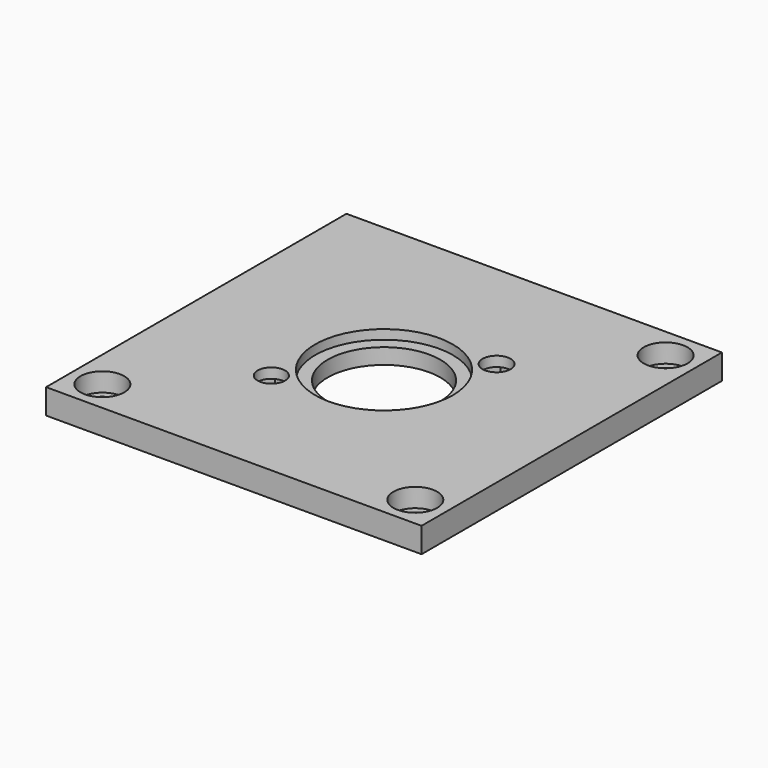
from build123d import *

# Parameters (mm, degrees)
CYLINDER031_R     = 2.25
CYLINDER031_DEPTH = 10
EXTRUDE002_DEPTH  = 2.4
CYLINDER030_R     = 2.2
CYLINDER030_DEPTH = 10
EXTRUDE001_DEPTH  = 2.4
CYLINDER029_R     = 11
CYLINDER029_DEPTH = 10
CYLINDER022_R     = 9
CYLINDER022_DEPTH = 10
CYLINDER024_R     = 3.5
CYLINDER024_DEPTH = 3
CYLINDER023_R     = 2.4
CYLINDER023_DEPTH = 10
CYLINDER026_R     = 3.5
CYLINDER026_DEPTH = 3
CYLINDER025_R     = 2.4
CYLINDER025_DEPTH = 10
CYLINDER028_R     = 3.5
CYLINDER028_DEPTH = 3
CYLINDER027_R     = 2.4
CYLINDER027_DEPTH = 10
BOX005_W          = 60
BOX005_H          = 60
BOX005_DEPTH      = 4


with BuildPart() as cylinder031:
    # Cylinder031 → Cylinder031 (new body)
    with BuildSketch(Plane(origin=(40, 40, 0), x_dir=(1, 0, 0), z_dir=(0, 0, 1))):
        Circle(CYLINDER031_R)
    extrude(amount=CYLINDER031_DEPTH)


with BuildPart() as fusion026:
    # Sketch002 → Extrude002 (new body)
    with BuildSketch(Plane.XY):
        Polygon((-3.005, 0), (-1.5025, -2.602406), (1.5025, -2.602406), (3.005, 0), (1.5025, 2.602406), (-1.5025, 2.602406), align=None)
    extrude(amount=EXTRUDE002_DEPTH)


with BuildPart() as fusion026_1:
    # Extrude002 placement: moved
    add(fusion026.part.moved(Location((40, 40, 0))))

    # Fusion026: union Cylinder031
    add(cylinder031.part)


with BuildPart() as cylinder030:
    # Cylinder030 → Cylinder030 (new body)
    with BuildSketch(Plane(origin=(20, 20, 0), x_dir=(1, 0, 0), z_dir=(0, 0, 1))):
        Circle(CYLINDER030_R)
    extrude(amount=CYLINDER030_DEPTH)


with BuildPart() as compound004:
    # Sketch001 → Extrude001 (new body)
    with BuildSketch(Plane.XY):
        Polygon((-3.005, 0), (-1.5025, -2.602406), (1.5025, -2.602406), (3.005, 0), (1.5025, 2.602406), (-1.5025, 2.602406), align=None)
    extrude(amount=EXTRUDE001_DEPTH)


with BuildPart() as compound004_1:
    # Extrude001 placement: moved
    add(compound004.part.moved(Location((20, 20, 0))))

    # Fusion025: union Cylinder030
    add(cylinder030.part)

    # Compound004: union Fusion026
    add(fusion026_1.part)


with BuildPart() as cylinder029:
    # Cylinder029 → Cylinder029 (new body)
    with BuildSketch(Plane(origin=(30, 30, 2.5), x_dir=(1, 0, 0), z_dir=(0, 0, 1))):
        Circle(CYLINDER029_R)
    extrude(amount=CYLINDER029_DEPTH)


with BuildPart() as cylinder022:
    # Cylinder022 → Cylinder022 (new body)
    with BuildSketch(Plane(origin=(30, 30, 0), x_dir=(1, 0, 0), z_dir=(0, 0, 1))):
        Circle(CYLINDER022_R)
    extrude(amount=CYLINDER022_DEPTH)


with BuildPart() as cylinder024:
    # Cylinder024 → Cylinder024 (new body)
    with BuildSketch(Plane.XY.offset(1)):
        Circle(CYLINDER024_R)
    extrude(amount=CYLINDER024_DEPTH)


with BuildPart() as fusion022:
    # Cylinder023 → Cylinder023 (new body)
    with BuildSketch(Plane.XY):
        Circle(CYLINDER023_R)
    extrude(amount=CYLINDER023_DEPTH)

    # Fusion022: union Cylinder024
    add(cylinder024.part)


with BuildPart() as fusion022_1:
    # Fusion022 placement: moved
    add(fusion022.part.moved(Location((5, 5, 0))))


with BuildPart() as cylinder026:
    # Cylinder026 → Cylinder026 (new body)
    with BuildSketch(Plane.XY.offset(1)):
        Circle(CYLINDER026_R)
    extrude(amount=CYLINDER026_DEPTH)


with BuildPart() as fusion023:
    # Cylinder025 → Cylinder025 (new body)
    with BuildSketch(Plane.XY):
        Circle(CYLINDER025_R)
    extrude(amount=CYLINDER025_DEPTH)

    # Fusion023: union Cylinder026
    add(cylinder026.part)


with BuildPart() as fusion023_1:
    # Fusion023 placement: moved
    add(fusion023.part.moved(Location((55, 5, 0))))


with BuildPart() as cylinder028:
    # Cylinder028 → Cylinder028 (new body)
    with BuildSketch(Plane.XY.offset(1)):
        Circle(CYLINDER028_R)
    extrude(amount=CYLINDER028_DEPTH)


with BuildPart() as compound003:
    # Cylinder027 → Cylinder027 (new body)
    with BuildSketch(Plane.XY):
        Circle(CYLINDER027_R)
    extrude(amount=CYLINDER027_DEPTH)

    # Fusion024: union Cylinder028
    add(cylinder028.part)


with BuildPart() as compound003_1:
    # Fusion024 placement: moved
    add(compound003.part.moved(Location((55, 55, 0))))

    # Compound003: union Fusion022, Fusion023
    add(fusion022_1.part)
    add(fusion023_1.part)


with BuildPart() as obj1:
    # Box005 → Box005 (new body)
    with BuildSketch(Plane.XY):
        with Locations((30, 30)):
            Rectangle(BOX005_W, BOX005_H)
    extrude(amount=BOX005_DEPTH)

    # Cut007: cut Compound003
    add(compound003_1.part, mode=Mode.SUBTRACT)

    # Cut008: cut Cylinder022
    add(cylinder022.part, mode=Mode.SUBTRACT)

    # Cut009: cut Cylinder029
    add(cylinder029.part, mode=Mode.SUBTRACT)

    # Cut010: cut Compound004
    add(compound004_1.part, mode=Mode.SUBTRACT)


solid = obj1.part
